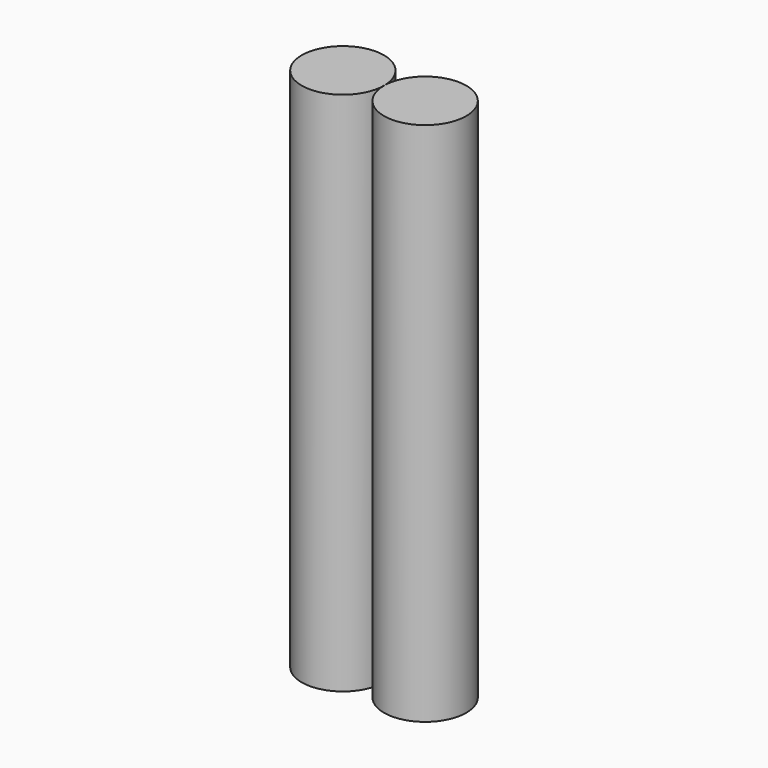
from build123d import *

# Parameters (mm, degrees)
F0_R     = 11.75
F1_DEPTH = 150


with BuildPart() as f1:
    # F0 (on Top) → F1 (new body)
    with BuildSketch(Plane.XY):
        with BuildLine():
            ThreePointArc((23.5, 0), (11.75, 11.75), (0, 0))
            ThreePointArc((0, 0), (11.75, -11.75), (23.5, 0))
        make_face()
        with Locations((-11.75, 0)):
            Circle(F0_R)
    extrude(amount=F1_DEPTH)


solid = f1.part
